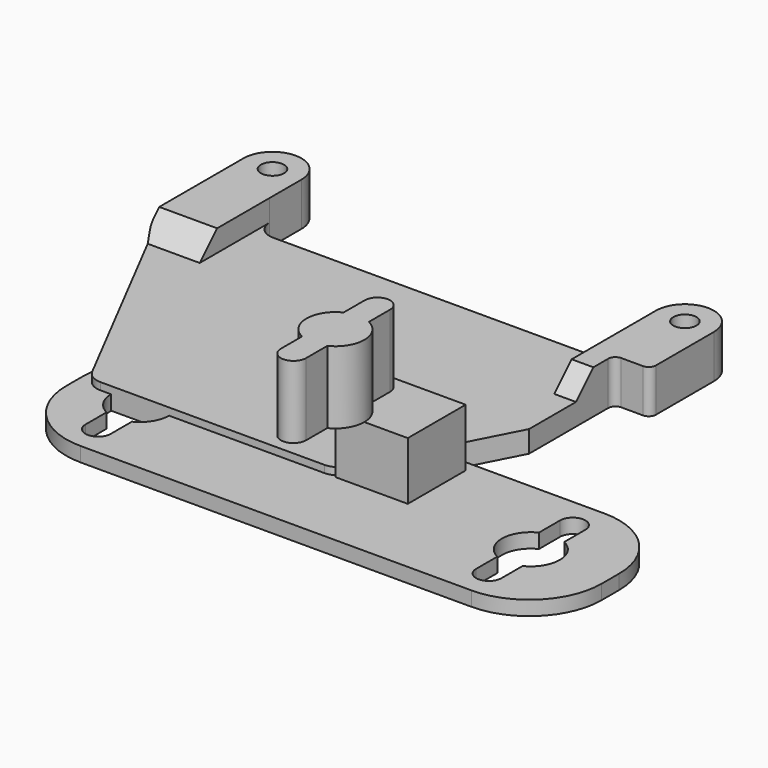
from build123d import *

# Parameters (mm, degrees)
BOX_W        = 10
BOX_H        = 10
BOX_DEPTH    = 10
PAD001_DEPTH = 10
BOX001_W     = 74
BOX001_H     = 23
BOX001_DEPTH = 2
FILLET001_R  = 10
BOX003_W     = 16
BOX003_H     = 20
BOX003_DEPTH = 10
BOX002_W     = 49
BOX002_H     = 45
BOX002_DEPTH = 10
PAD002_DEPTH = 85
SKETCH_R     = 1.6
PAD_DEPTH    = 6
FILLET_R     = 2.5
FILLET002_R  = 1


with BuildPart() as cube:
    # Box → Box (new body)
    with BuildSketch(Plane.XY):
        with Locations((5, 5)):
            Rectangle(BOX_W, BOX_H)
    extrude(amount=BOX_DEPTH)


with BuildPart() as pad001:
    # Sketch003 → Pad001 (new body)
    with BuildSketch(Plane.XY.offset(10)):
        with BuildLine():
            ThreePointArc((-1.75, 3.596874), (-4, 0), (-1.75, -3.596874))
            Line((-1.75, -3.596874), (-1.75, -7.25))
            ThreePointArc((-1.75, -7.25), (0, -9), (1.75, -7.25))
            Line((1.75, -7.25), (1.75, -3.596874))
            ThreePointArc((1.75, -3.596874), (4, 0), (1.75, 3.596874))
            Line((1.75, 3.596874), (1.75, 7.25))
            ThreePointArc((1.75, 7.25), (5e-06, 9.00001), (-1.75, 7.25001))
            Line((-1.75, 7.25001), (-1.75, 3.596874))
        make_face()
    extrude(amount=PAD001_DEPTH)


with BuildPart() as clone_of_pad002:
    # Clone001 base: copy of Pad001
    add(pad001.part)


with BuildPart() as clone_of_pad002_1:
    # Clone001 placement: moved
    add(clone_of_pad002.part.moved(Location((27, 0, 0))))


with BuildPart() as fusion:
    # Clone base: copy of Pad001
    add(pad001.part)


with BuildPart() as fusion_1:
    # Clone placement: moved
    add(fusion.part.moved(Location((-27, 0, 0))))

    # Fusion: union Clone of Pad002
    add(clone_of_pad002_1.part)


with BuildPart() as fusion_2:
    # Fusion placement: moved
    add(fusion_1.part.moved(Location((0, 0, -14))))


with BuildPart() as fillet001:
    # Box001 → Box001 (new body)
    with BuildSketch(Plane(origin=(-36, -11.5, 0), x_dir=(1, 0, 0), z_dir=(0, 0, 1))):
        with Locations((37, 11.5)):
            Rectangle(BOX001_W, BOX001_H)
    extrude(amount=BOX001_DEPTH)

    # Cut: cut Fusion
    add(fusion_2.part, mode=Mode.SUBTRACT)

    # Fillet001
    fillet001_edges = [fillet001.edges().sort_by_distance(p)[0] for p in [
        (-36, -11.5, 1),
        (-36, 11.5, 1),
        (38, -11.5, 1),
        (38, 11.5, 1),
    ]]
    fillet(fillet001_edges, radius=FILLET001_R)


with BuildPart() as cube003:
    # Box003 → Box003 (new body)
    with BuildSketch(Plane(origin=(10.5, 15, -1), x_dir=(1, 0, 0), z_dir=(0, 0, 1))):
        with Locations((8, 10)):
            Rectangle(BOX003_W, BOX003_H)
    extrude(amount=BOX003_DEPTH)


with BuildPart() as cube002:
    # Box002 → Box002 (new body)
    with BuildSketch(Plane(origin=(-41.5, 0, 3), x_dir=(1, 0, 0), z_dir=(0, 0, 1))):
        with Locations((24.5, 22.5)):
            Rectangle(BOX002_W, BOX002_H)
    extrude(amount=BOX002_DEPTH)


with BuildPart() as pad002:
    # Sketch004 → Pad002 (new body)
    with BuildSketch(Plane.YZ.offset(20)):
        Polygon((-6.988396, 21.148684), (46.583859, 21.148684), (28.435175, 3), (-6.988396, 3), align=None)
    extrude(amount=-PAD002_DEPTH)


with BuildPart() as fillet002:
    # Sketch → Pad (new body)
    with BuildSketch(Plane.XY):
        with BuildLine():
            Line((-49.500004, 46.000012), (-49.500004, 30.000012))
            Line((-49.500004, 30.000012), (-34, 0))
            Line((-34, 0), (0, 0))
            Line((0, 0), (15.499996, 30.000016))
            Line((15.499996, 30.000016), (15.499996, 46.000016))
            ThreePointArc((15.499996, 46.000016), (11.499995, 50), (7.499996, 46.000014))
            Line((7.499996, 38), (7.499996, 46.000014))
            Line((-41.500004, 38), (7.499996, 38))
            Line((-41.500004, 46.000014), (-41.500004, 38))
            ThreePointArc((-41.500004, 46.000014), (-45.500004, 50), (-49.500004, 46.000012))
        make_face()
        with Locations((-45.500004, 46)):
            Circle(SKETCH_R, mode=Mode.SUBTRACT)
        with Locations((11.499996, 46)):
            Circle(SKETCH_R, mode=Mode.SUBTRACT)
    extrude(amount=PAD_DEPTH)

    # Fillet
    fillet_edges = [fillet002.edges().sort_by_distance(p)[0] for p in [
        (-49.500004, 30.000012, 3),
        (-34, 0, 3),
        (0, 0, 3),
        (15.499996, 30.000016, 3),
        (7.499996, 38, 3),
        (-41.500004, 38, 3),
    ]]
    fillet(fillet_edges, radius=FILLET_R)

    # Cut001: cut Pad002
    add(pad002.part, mode=Mode.SUBTRACT)

    # Cut002: cut Cube002
    add(cube002.part, mode=Mode.SUBTRACT)

    # Cut003: cut Cube003
    add(cube003.part, mode=Mode.SUBTRACT)

    # Fillet002
    fillet002_edges = [fillet002.edges().sort_by_distance(p)[0] for p in [
        (10.5, 35, 3),
        (15.499996, 35, 3),
    ]]
    fillet(fillet002_edges, radius=FILLET002_R)


solid = Compound([cube.part, pad001.part, fillet001.part, fillet002.part])
